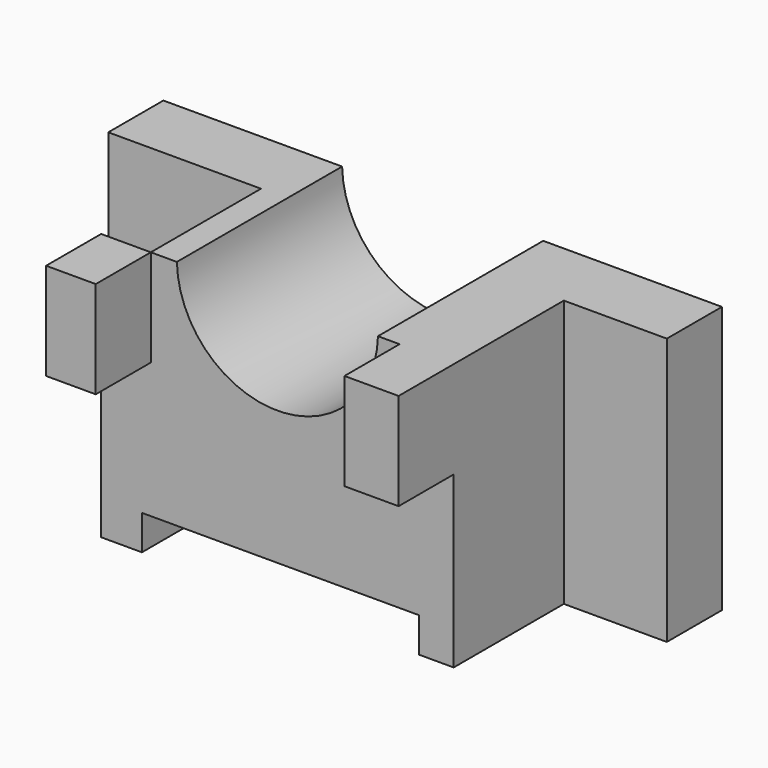
from build123d import *

# Parameters (mm, degrees)
F0_W      = 206.0731202364
F0_H      = 98.518691957
F1_DEPTH  = 25.4
F2_W      = 130.0561721606
F2_H      = 98.518691957
F3_DEPTH  = 50.8
F4_W      = 102.3078672588
F4_H      = 12.8249134868
F5_DEPTH  = 50.8
F6_R      = 37.1073402664
F7_DEPTH  = 76.2
F8_W      = 18.3221174023
F8_H      = 35.8118899167
F9_DEPTH  = 50.8
F8_W_2    = 19.963033273
F10_DEPTH = 25.4


with BuildPart() as f1:
    # F0 (on Front) → F1 (new body)
    with BuildSketch(Plane.XZ):
        Rectangle(F0_W, F0_H)
    extrude(amount=F1_DEPTH)

    # F2 (on face) → F3 (join)
    with BuildSketch(Plane.XZ.offset(25.4)):
        Rectangle(F2_W, F2_H)
    extrude(amount=F3_DEPTH)

    # F4 (on face) → F5 (cut)
    with BuildSketch(Plane.XZ.offset(76.2)):
        with Locations((1.1659022421, -42.8468892351)):
            Rectangle(F4_W, F4_H)
    extrude(amount=-F5_DEPTH, mode=Mode.SUBTRACT)

    # F6 (on Front) → F7 (cut)
    with BuildSketch(Plane.XZ):
        with Locations((0, 50.1140579581)):
            Circle(F6_R)
    extrude(amount=F7_DEPTH, mode=Mode.SUBTRACT)

    # F8 (on face) → F9 (cut)
    with BuildSketch(Plane.XZ.offset(76.2)):
        with Locations((-55.8670273792, 31.3534010202)):
            Rectangle(F8_W, F8_H)
    extrude(amount=-F9_DEPTH, mode=Mode.SUBTRACT)

    # F8 (on face) → F10 (join)
    with BuildSketch(Plane.XZ.offset(76.2)):
        with Locations((-55.8670273792, 31.3534010202)):
            Rectangle(F8_W, F8_H)
        with Locations((55.0465694438, 31.3534010202)):
            Rectangle(F8_W_2, F8_H)
    extrude(amount=F10_DEPTH)


solid = f1.part
